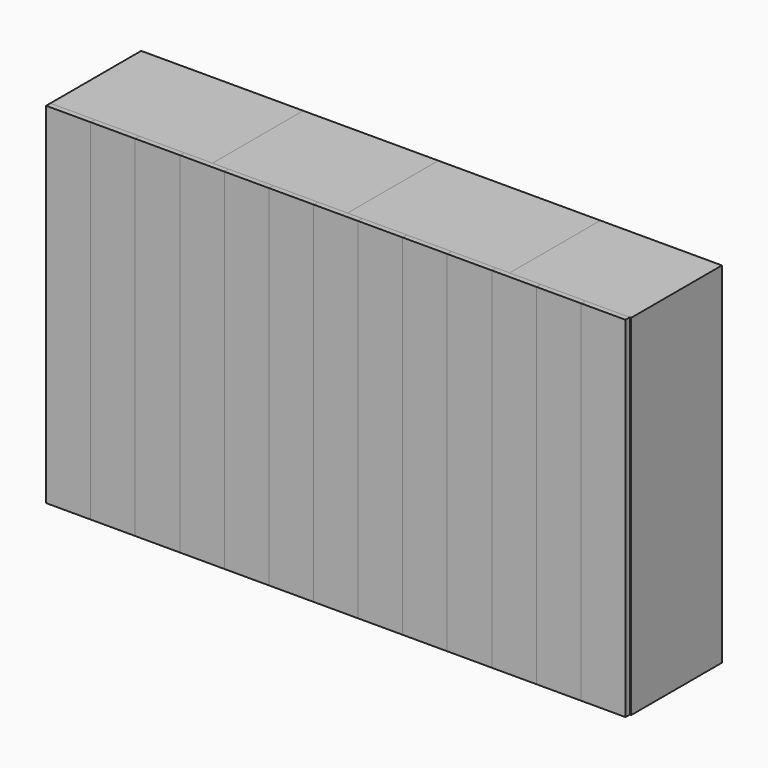
from build123d import *

# Parameters (mm, degrees)
F0_W      = 600
F0_H      = 1295
F0_W_2    = 560
F0_H_2    = 1255
F1_DEPTH  = 420
F2_W      = 500
F2_H      = 1295
F2_W_2    = 460
F2_H_2    = 1255
F3_DEPTH  = 420
F4_W      = 600
F4_H      = 1295
F4_W_2    = 560
F4_H_2    = 1255
F5_DEPTH  = 420
F6_W      = 450
F6_H      = 1295
F6_W_2    = 410
F6_H_2    = 1255
F7_DEPTH  = 420
F8_W      = 165
F8_H      = 1295
F9_DEPTH  = 20
F10_W     = 165
F10_H     = 1295
F11_DEPTH = 20
F12_W     = 165
F12_H     = 1295
F13_DEPTH = 20
F14_W     = 165
F14_H     = 1295
F15_DEPTH = 20
F16_W     = 165
F16_H     = 1295
F17_DEPTH = 20
F18_W     = 165
F18_H     = 1295
F19_DEPTH = 20
F20_W     = 165
F20_H     = 1295
F21_DEPTH = 20
F22_W     = 165
F22_H     = 1295
F23_DEPTH = 20
F24_W     = 165
F24_H     = 1295
F25_DEPTH = 20
F26_W     = 165
F26_H     = 1295
F27_DEPTH = 20
F28_W     = 165
F28_H     = 1295
F29_DEPTH = 20
F30_W     = 165
F30_H     = 1295
F31_DEPTH = 20
F32_W     = 165
F32_H     = 1295
F33_DEPTH = 20


with BuildPart() as f1:
    # F0 (on Front) → F1 (new body)
    with BuildSketch(Plane.XZ):
        with Locations((300, 647.5)):
            Rectangle(F0_W, F0_H)
        with Locations((300, 647.5)):
            Rectangle(F0_W_2, F0_H_2, mode=Mode.SUBTRACT)
    extrude(amount=-F1_DEPTH)


with BuildPart() as f3:
    # F2 (on face) → F3 (new body)
    with BuildSketch(Plane.XZ):
        with Locations((850, 647.5)):
            Rectangle(F2_W, F2_H)
        with Locations((850, 647.5)):
            Rectangle(F2_W_2, F2_H_2, mode=Mode.SUBTRACT)
    extrude(amount=-F3_DEPTH)


with BuildPart() as f5:
    # F4 (on face) → F5 (new body)
    with BuildSketch(Plane.XZ):
        with Locations((1400, 647.5)):
            Rectangle(F4_W, F4_H)
        with Locations((1400, 647.5)):
            Rectangle(F4_W_2, F4_H_2, mode=Mode.SUBTRACT)
    extrude(amount=-F5_DEPTH)


with BuildPart() as f7:
    # F6 (on face) → F7 (new body)
    with BuildSketch(Plane.XZ):
        with Locations((1925, 647.5)):
            Rectangle(F6_W, F6_H)
        with Locations((1925, 647.5)):
            Rectangle(F6_W_2, F6_H_2, mode=Mode.SUBTRACT)
    extrude(amount=-F7_DEPTH)


with BuildPart() as f9:
    # F8 (on face) → F9 (new body)
    with BuildSketch(Plane.XZ):
        with Locations((82.5, 647.5)):
            Rectangle(F8_W, F8_H)
    extrude(amount=F9_DEPTH)


with BuildPart() as f11:
    # F10 (on face) → F11 (new body)
    with BuildSketch(Plane.XZ.offset(20)):
        with Locations((247.5, 647.5)):
            Rectangle(F10_W, F10_H)
    extrude(amount=-F11_DEPTH)


with BuildPart() as f13:
    # F12 (on face) → F13 (new body)
    with BuildSketch(Plane.XZ.offset(20)):
        with Locations((412.5, 647.5)):
            Rectangle(F12_W, F12_H)
    extrude(amount=-F13_DEPTH)


with BuildPart() as f15:
    # F14 (on face) → F15 (new body)
    with BuildSketch(Plane.XZ.offset(20)):
        with Locations((577.5, 647.5)):
            Rectangle(F14_W, F14_H)
    extrude(amount=-F15_DEPTH)


with BuildPart() as f17:
    # F16 (on face) → F17 (new body)
    with BuildSketch(Plane.XZ.offset(20)):
        with Locations((742.5, 647.5)):
            Rectangle(F16_W, F16_H)
    extrude(amount=-F17_DEPTH)


with BuildPart() as f19:
    # F18 (on face) → F19 (new body)
    with BuildSketch(Plane.XZ.offset(20)):
        with Locations((907.5, 647.5)):
            Rectangle(F18_W, F18_H)
    extrude(amount=-F19_DEPTH)


with BuildPart() as f21:
    # F20 (on face) → F21 (new body)
    with BuildSketch(Plane.XZ.offset(20)):
        with Locations((1072.5, 647.5)):
            Rectangle(F20_W, F20_H)
    extrude(amount=-F21_DEPTH)


with BuildPart() as f23:
    # F22 (on face) → F23 (new body)
    with BuildSketch(Plane.XZ.offset(20)):
        with Locations((1237.5, 647.5)):
            Rectangle(F22_W, F22_H)
    extrude(amount=-F23_DEPTH)


with BuildPart() as f25:
    # F24 (on face) → F25 (new body)
    with BuildSketch(Plane.XZ.offset(20)):
        with Locations((1402.5, 647.5)):
            Rectangle(F24_W, F24_H)
    extrude(amount=-F25_DEPTH)


with BuildPart() as f27:
    # F26 (on face) → F27 (new body)
    with BuildSketch(Plane.XZ.offset(20)):
        with Locations((1567.5, 647.5)):
            Rectangle(F26_W, F26_H)
    extrude(amount=-F27_DEPTH)


with BuildPart() as f29:
    # F28 (on face) → F29 (new body)
    with BuildSketch(Plane.XZ.offset(20)):
        with Locations((1732.5, 647.5)):
            Rectangle(F28_W, F28_H)
    extrude(amount=-F29_DEPTH)


with BuildPart() as f31:
    # F30 (on face) → F31 (new body)
    with BuildSketch(Plane.XZ.offset(20)):
        with Locations((1897.5, 647.5)):
            Rectangle(F30_W, F30_H)
    extrude(amount=-F31_DEPTH)


with BuildPart() as f33:
    # F32 (on face) → F33 (new body)
    with BuildSketch(Plane.XZ.offset(20)):
        with Locations((2062.5, 647.5)):
            Rectangle(F32_W, F32_H)
    extrude(amount=-F33_DEPTH)


solid = Compound([f1.part, f3.part, f5.part, f7.part, f9.part, f11.part, f13.part, f15.part, f17.part, f19.part, f21.part, f23.part, f25.part, f27.part, f29.part, f31.part, f33.part])
